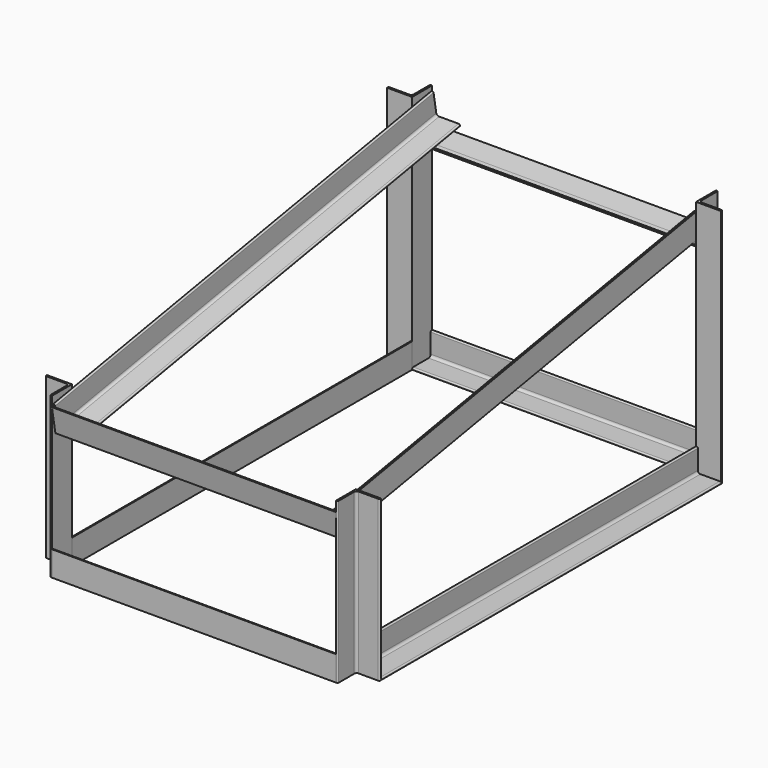
from build123d import *

# Parameters (mm, degrees)
F2_DEPTH       = 406.4
F3_DEPTH       = 609.6
F4_DEPTH       = 360.3625
F4_DEPTH_BACK  = 360.3625
F6_DEPTH       = 1219.2
F8_DEPTH       = 784.226
F11_DEPTH      = 360.3625
F11_DEPTH_BACK = 360.3625
F13_DEPTH      = 1079.5


with BuildPart() as f2:
    # F1 (on Top) → F2 (new body)
    with BuildSketch(Plane.XY):
        with BuildLine():
            ThreePointArc((-365.125, 3.175), (-364.1950640303, 0.9299359697), (-361.95, 0))
            Line((-361.95, 0), (-360.3625, 0))
            Line((-360.3625, 0), (-360.3625, 63.5))
            Line((-360.3625, 63.5), (-423.8625, 63.5))
            Line((-423.8625, 63.5), (-423.8625, 61.9125))
            ThreePointArc((-423.8625, 61.9125), (-422.9325640303, 59.6674359697), (-420.6875, 58.7375))
            Line((-420.6875, 58.7375), (-371.475, 58.7375))
            ThreePointArc((-371.475, 58.7375), (-366.9848719395, 56.8776280605), (-365.125, 52.3875))
            Line((-365.125, 52.3875), (-365.125, 3.175))
        make_face()
    extrude(amount=F2_DEPTH)


with BuildPart() as f2b:
    # F1 (on Top) → F2, piece 2 (new body)
    with BuildSketch(Plane.XY):
        with BuildLine():
            Line((360.3625, 63.5), (360.3625, 0))
            Line((360.3625, 0), (361.95, 0))
            ThreePointArc((361.95, 0), (364.1950640303, 0.9299359697), (365.125, 3.175))
            Line((365.125, 3.175), (365.125, 52.3875))
            ThreePointArc((365.125, 52.3875), (366.9848719395, 56.8776280605), (371.475, 58.7375))
            Line((371.475, 58.7375), (420.6875, 58.7375))
            ThreePointArc((420.6875, 58.7375), (422.9325640303, 59.6674359697), (423.8625, 61.9125))
            Line((423.8625, 61.9125), (423.8625, 63.5))
            Line((423.8625, 63.5), (360.3625, 63.5))
        make_face()
    extrude(amount=F2_DEPTH)


with BuildPart() as f3:
    # F1 (on Top) → F3 (new body)
    with BuildSketch(Plane.XY):
        with BuildLine():
            Line((-360.3625, 1206.5), (-361.95, 1206.5))
            ThreePointArc((-361.95, 1206.5), (-364.1950640303, 1205.5700640303), (-365.125, 1203.325))
            Line((-365.125, 1203.325), (-365.125, 1154.1125))
            ThreePointArc((-365.125, 1154.1125), (-366.9848719395, 1149.6223719395), (-371.475, 1147.7625))
            Line((-371.475, 1147.7625), (-420.6875, 1147.7625))
            ThreePointArc((-420.6875, 1147.7625), (-422.9325640303, 1146.8325640303), (-423.8625, 1144.5875))
            Line((-423.8625, 1144.5875), (-423.8625, 1143))
            Line((-423.8625, 1143), (-360.3625, 1143))
            Line((-360.3625, 1143), (-360.3625, 1206.5))
        make_face()
    extrude(amount=F3_DEPTH)


with BuildPart() as f3b:
    # F1 (on Top) → F3, piece 2 (new body)
    with BuildSketch(Plane.XY):
        with BuildLine():
            ThreePointArc((365.125, 1203.325), (364.1950640303, 1205.5700640303), (361.95, 1206.5))
            Line((361.95, 1206.5), (360.3625, 1206.5))
            Line((360.3625, 1206.5), (360.3625, 1143))
            Line((360.3625, 1143), (423.8625, 1143))
            Line((423.8625, 1143), (423.8625, 1144.5875))
            ThreePointArc((423.8625, 1144.5875), (422.9325640303, 1146.8325640303), (420.6875, 1147.7625))
            Line((420.6875, 1147.7625), (371.475, 1147.7625))
            ThreePointArc((371.475, 1147.7625), (366.9848719395, 1149.6223719395), (365.125, 1154.1125))
            Line((365.125, 1154.1125), (365.125, 1203.325))
        make_face()
    extrude(amount=F3_DEPTH)


with BuildPart() as f4:
    # F0 (on Right) → F4 (new body, two sides)
    with BuildSketch(Plane.YZ) as f4_sk:
        with BuildLine():
            Line((1.5633823079, 381.275666482), (0, 381))
            Line((0, 381), (11.0266592819, 318.4647076837))
            Line((11.0266592818, 318.4647076837), (63.5, 327.7171734202))
            Line((63.5, 327.7171734202), (63.5, 332.5531426593))
            Line((63.5, 332.5531426593), (21.1433359911, 325.0845199818))
            ThreePointArc((21.1433359911, 325.0845199818), (16.398459692, 326.1364337322), (13.7871408312, 330.2353832852))
            Line((13.7871408312, 330.2353832852), (5.2414798878, 378.7002348303))
            ThreePointArc((5.2414798878, 378.7002348303), (3.9358204574, 380.7497096069), (1.5633823079, 381.275666482))
        make_face()
        with BuildLine():
            Line((63.5, 332.5531426593), (63.5, 327.7171734202))
            Line((63.5, 327.7171734202), (73.5619515981, 329.4913669656))
            Line((73.5619515981, 329.4913669656), (73.2862851161, 331.0547492735))
            ThreePointArc((73.2862851161, 331.0547492735), (71.9806256857, 333.10422405), (69.6081875362, 333.6301809252))
            Line((69.6081875362, 333.6301809252), (63.5, 332.5531426593))
        make_face()
    extrude(amount=-F4_DEPTH)
    extrude(f4_sk.sketch, amount=F4_DEPTH_BACK)


with BuildPart() as f4b:
    # F0 (on Right) → F4, piece 2 (new body, two sides)
    with BuildSketch(Plane.YZ) as f4_2_sk:
        with BuildLine():
            Line((1195.4733407181, 532.1505840707), (1143, 522.8981183341))
            Line((1143, 522.8981183341), (1143, 518.062149095))
            Line((1143, 518.062149095), (1185.3566640089, 525.5307717726))
            ThreePointArc((1185.3566640089, 525.5307717726), (1190.101540308, 524.4788580222), (1192.7128591688, 520.3799084692))
            Line((1192.7128591688, 520.3799084692), (1201.2585201122, 471.9150569241))
            ThreePointArc((1201.2585201122, 471.9150569241), (1202.5641795426, 469.8655821475), (1204.9366176921, 469.3396252723))
            Line((1204.9366176921, 469.3396252723), (1206.5, 469.6152917544))
            Line((1206.5, 469.6152917544), (1195.4733407181, 532.1505840707))
        make_face()
        with BuildLine():
            Line((1143, 522.8981183341), (1132.9380484019, 521.1239247888))
            Line((1132.9380484019, 521.1239247888), (1133.2137148839, 519.5605424809))
            ThreePointArc((1133.2137148839, 519.5605424809), (1134.5193743143, 517.5110677044), (1136.8918124638, 516.9851108292))
            Line((1136.8918124638, 516.9851108292), (1143, 518.062149095))
            Line((1143, 518.062149095), (1143, 522.8981183341))
        make_face()
    extrude(amount=-F4_DEPTH)
    extrude(f4_2_sk.sketch, amount=F4_DEPTH_BACK)


with BuildPart() as f6:
    # F5 (on face) → F6 (new body)
    with BuildSketch(Plane(origin=(0, 69.8449842273, 12.3155551864), x_dir=(-1, 0, 0), z_dir=(0, 0.984807753, 0.1736481777))):
        with BuildLine():
            Line((-358.775, 379.9742538977), (-360.3625, 379.9742538977))
            Line((-360.3625, 379.9742538977), (-360.3625, 316.4742538977))
            Line((-360.3625, 316.4742538977), (-296.8625, 316.4742538977))
            Line((-296.8625, 316.4742538977), (-296.8625, 318.0617538977))
            ThreePointArc((-296.8625, 318.0617538977), (-297.7924359697, 320.3068179279), (-300.0375, 321.2367538977))
            Line((-300.0375, 321.2367538977), (-349.25, 321.2367538977))
            ThreePointArc((-349.25, 321.2367538977), (-353.7401280605, 323.0966258371), (-355.6, 327.5867538977))
            Line((-355.6, 327.5867538977), (-355.6, 376.7992538977))
            ThreePointArc((-355.6, 376.7992538977), (-356.5299359697, 379.0443179279), (-358.775, 379.9742538977))
        make_face()
    extrude(amount=F6_DEPTH)

    # F7 (on face) → F8 (cut, through all)
    with BuildSketch(Plane.YZ.offset(360.3625)):
        Polygon((12.6844749031, 336.4889125168), (14.8898067594, 323.9818540536), (27.3968652227, 326.18718591), align=None)
    extrude(amount=-F8_DEPTH, mode=Mode.SUBTRACT)


with BuildPart() as f9_1:
    # F9: instance of F6
    add(f6.part.mirror(Plane.YZ))


with BuildPart() as f11:
    # F10 (on Right) → F11 (new body, two sides)
    with BuildSketch(Plane.YZ) as f11_sk:
        with BuildLine():
            Line((1.5875, 63.5), (0, 63.5))
            Line((0, 63.5), (0, 0))
            Line((0, 0), (63.5, 0))
            Line((63.5, 0), (63.5, 1.5875))
            ThreePointArc((63.5, 1.5875), (62.5700640303, 3.8325640303), (60.325, 4.7625))
            Line((60.325, 4.7625), (11.1125, 4.7625))
            ThreePointArc((11.1125, 4.7625), (6.6223719395, 6.6223719395), (4.7625, 11.1125))
            Line((4.7625, 11.1125), (4.7625, 60.325))
            ThreePointArc((4.7625, 60.325), (3.8325640303, 62.5700640303), (1.5875, 63.5))
        make_face()
    extrude(amount=F11_DEPTH)
    extrude(f11_sk.sketch, amount=-F11_DEPTH_BACK)


with BuildPart() as f11b:
    # F10 (on Right) → F11, piece 2 (new body, two sides)
    with BuildSketch(Plane.YZ) as f11_2_sk:
        with BuildLine():
            Line((1143, 1.5875), (1143, 0))
            Line((1143, 0), (1206.5, 0))
            Line((1206.5, 0), (1206.5, 63.5))
            Line((1206.5, 63.5), (1204.9125, 63.5))
            ThreePointArc((1204.9125, 63.5), (1202.6674359697, 62.5700640303), (1201.7375, 60.325))
            Line((1201.7375, 60.325), (1201.7375, 11.1125))
            ThreePointArc((1201.7375, 11.1125), (1199.8776280605, 6.6223719395), (1195.3875, 4.7625))
            Line((1195.3875, 4.7625), (1146.175, 4.7625))
            ThreePointArc((1146.175, 4.7625), (1143.9299359697, 3.8325640303), (1143, 1.5875))
        make_face()
    extrude(amount=F11_DEPTH)
    extrude(f11_2_sk.sketch, amount=-F11_DEPTH_BACK)


with BuildPart() as f13:
    # F12 (on face) → F13 (new body, through all)
    with BuildSketch(Plane.XZ.offset(-1143)):
        with BuildLine():
            Line((361.95, 63.5), (360.3625, 63.5))
            Line((360.3625, 63.5), (360.3625, 0))
            Line((360.3625, 0), (423.8625, 0))
            Line((423.8625, 0), (423.8625, 1.5875))
            ThreePointArc((423.8625, 1.5875), (422.9325640303, 3.8325640303), (420.6875, 4.7625))
            Line((420.6875, 4.7625), (371.475, 4.7625))
            ThreePointArc((371.475, 4.7625), (366.9848719395, 6.6223719395), (365.125, 11.1125))
            Line((365.125, 11.1125), (365.125, 60.325))
            ThreePointArc((365.125, 60.325), (364.1950640303, 62.5700640303), (361.95, 63.5))
        make_face()
    extrude(amount=F13_DEPTH)


with BuildPart() as f13b:
    # F12 (on face) → F13, piece 2 (new body, through all)
    with BuildSketch(Plane.XZ.offset(-1143)):
        with BuildLine():
            Line((-423.8625, 1.5875), (-423.8625, 0))
            Line((-423.8625, 0), (-360.3625, 0))
            Line((-360.3625, 0), (-360.3625, 63.5))
            Line((-360.3625, 63.5), (-361.95, 63.5))
            ThreePointArc((-361.95, 63.5), (-364.1950640303, 62.5700640303), (-365.125, 60.325))
            Line((-365.125, 60.325), (-365.125, 11.1125))
            ThreePointArc((-365.125, 11.1125), (-366.9848719395, 6.6223719395), (-371.475, 4.7625))
            Line((-371.475, 4.7625), (-420.6875, 4.7625))
            ThreePointArc((-420.6875, 4.7625), (-422.9325640303, 3.8325640303), (-423.8625, 1.5875))
        make_face()
    extrude(amount=F13_DEPTH)


solid = Compound([f2.part, f2b.part, f3.part, f3b.part, f4.part, f4b.part, f6.part, f9_1.part, f11.part, f11b.part, f13.part, f13b.part])
